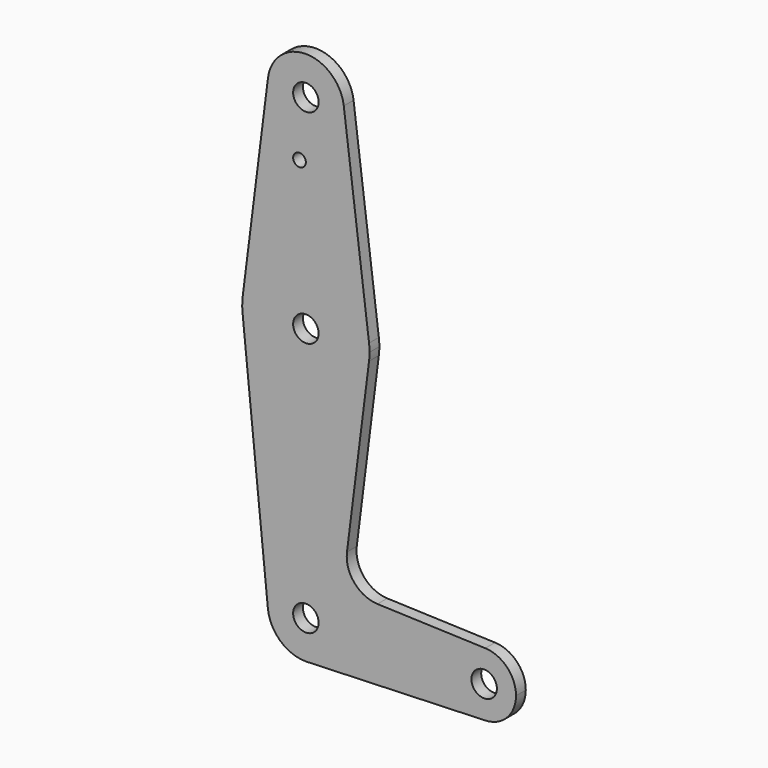
from build123d import *

# Parameters (mm, degrees)
F0_R     = 3.175
F0_R_2   = 1.5875
F1_DEPTH = 3.048


with BuildPart() as f1:
    # F0 (on Front) → F1 (new body)
    with BuildSketch(Plane.XZ):
        with BuildLine():
            ThreePointArc((44.732405, -7.932475), (50.161633, -5.51191), (52.3875, 0))
            ThreePointArc((52.3875, 0), (50.162007, 5.511523), (44.733482, 7.932436))
            ThreePointArc((44.733482, 7.932436), (36.5125, 0.000539), (44.732405, -7.932475))
        make_face()
        with Locations((44.45, 0)):
            Circle(F0_R, mode=Mode.SUBTRACT)
        with BuildLine():
            ThreePointArc((44.732405, -7.932475), (36.5125, 0.000539), (44.733482, 7.932436))
            Line((44.733482, 7.932436), (17.850784, 8.893145))
            ThreePointArc((17.850784, 8.893145), (12.079103, 11.687042), (10.246875, 17.832049))
            Line((10.246875, 17.832049), (15.750488, 61.515625))
            ThreePointArc((15.750488, 61.515625), (-0.199705, 47.626256), (-15.795426, 61.9125))
            Line((-15.795426, 61.9125), (-9.477255, -0.9525))
            ThreePointArc((-9.477255, -0.9525), (-0.476848, 9.513056), (9.525, 0))
            ThreePointArc((9.525, 0), (6.970557, -6.491299), (0.677344, -9.500886))
            Line((0.677344, -9.500886), (44.732405, -7.932475))
        make_face()
        with BuildLine():
            Line((0, -9.525), (0.677344, -9.500886))
            ThreePointArc((0.677344, -9.500886), (6.970557, -6.491299), (9.525, 0))
            ThreePointArc((9.525, 0), (-0.476848, 9.513056), (-9.477255, -0.9525))
            ThreePointArc((-9.477255, -0.9525), (-6.389564, -7.063929), (0, -9.525))
        make_face()
        Circle(F0_R, mode=Mode.SUBTRACT)
        with BuildLine():
            ThreePointArc((0, -9.525), (0.338886, -9.51897), (0.677344, -9.500886))
            Line((0.677344, -9.500886), (0, -9.525))
        make_face()
        with BuildLine():
            ThreePointArc((-15.795426, 61.9125), (-0.199705, 47.626256), (15.750488, 61.515625))
            ThreePointArc((15.750488, 61.515625), (15.843841, 62.505861), (15.875, 63.5))
            ThreePointArc((15.875, 63.5), (15.843841, 64.494139), (15.750488, 65.484375))
            ThreePointArc((15.750488, 65.484375), (0, 79.375), (-15.750488, 65.484375))
            ThreePointArc((-15.750488, 65.484375), (-15.873744, 63.699705), (-15.795426, 61.9125))
        make_face()
        with Locations((0, 63.5)):
            Circle(F0_R, mode=Mode.SUBTRACT)
        with BuildLine():
            Line((-9.450293, 115.490625), (-15.750488, 65.484375))
            ThreePointArc((-15.750488, 65.484375), (0, 79.375), (15.750488, 65.484375))
            Line((15.750488, 65.484375), (9.450293, 115.490625))
            ThreePointArc((9.450293, 115.490625), (9.506305, 114.896483), (9.525, 114.3))
            ThreePointArc((9.525, 114.3), (-0.596483, 104.793695), (-9.450293, 115.490625))
        make_face()
        with Locations((-1.5875, 100.0252)):
            Circle(F0_R_2, mode=Mode.SUBTRACT)
        with BuildLine():
            ThreePointArc((9.450293, 115.490625), (0, 123.825), (-9.450293, 115.490625))
            ThreePointArc((-9.450293, 115.490625), (-0.596483, 104.793695), (9.525, 114.3))
            ThreePointArc((9.525, 114.3), (9.506305, 114.896483), (9.450293, 115.490625))
        make_face()
        with Locations((0, 114.3)):
            Circle(F0_R, mode=Mode.SUBTRACT)
    extrude(amount=-F1_DEPTH)


solid = f1.part
